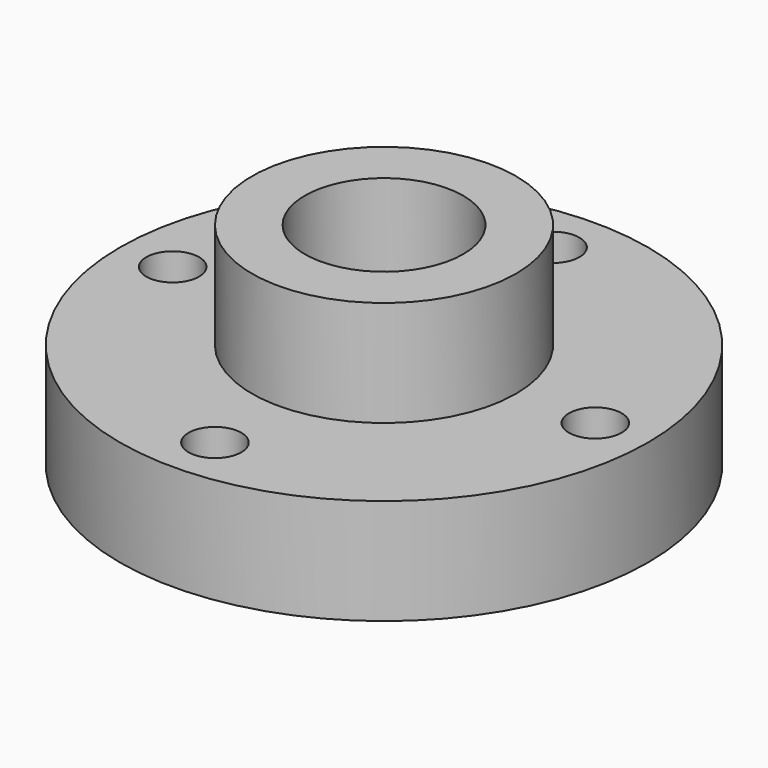
from build123d import *

# Parameters (mm, degrees)
F0_R     = 31.75
F0_R_2   = 15.875
F1_DEPTH = 12.7
F2_R     = 15.875
F3_DEPTH = 12.7
F4_R     = 9.525
F5_DEPTH = 25.4
F6_R     = 3.175
F7_DEPTH = 12.7


with BuildPart() as f1:
    # F0 (on Top) → F1 (new body)
    with BuildSketch(Plane.XY):
        Circle(F0_R)
        Circle(F0_R_2, mode=Mode.SUBTRACT)
        Circle(F0_R_2)
    extrude(amount=F1_DEPTH)

    # F2 (on face) → F3 (join)
    with BuildSketch(Plane.XY.offset(12.7)):
        Circle(F2_R)
    extrude(amount=F3_DEPTH)

    # F4 (on face) → F5 (cut, through all)
    with BuildSketch(Plane.XY.offset(25.4)):
        Circle(F4_R)
    extrude(amount=-F5_DEPTH, mode=Mode.SUBTRACT)

    # F6 (on face) → F7 (cut, through all)
    with BuildSketch(Plane.XY.offset(12.7)):
        with Locations((0, 25.4)):
            Circle(F6_R)
        with Locations((0, -25.4)):
            Circle(F6_R)
        with Locations((25.4, 0)):
            Circle(F6_R)
        with Locations((-25.4, 0)):
            Circle(F6_R)
    extrude(amount=-F7_DEPTH, mode=Mode.SUBTRACT)


solid = f1.part
